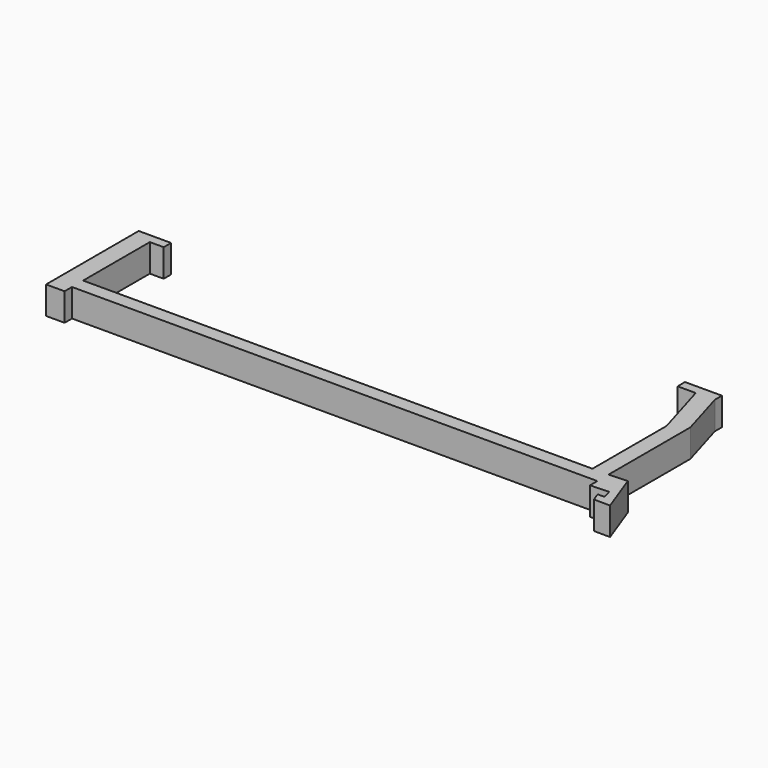
from build123d import *

# Parameters (mm, degrees)
F0_W     = 4
F0_H     = 2
F0_W_2   = 3
F1_DEPTH = 6


with BuildPart() as f1:
    # F0 (on Top) → F1 (new body)
    with BuildSketch(Plane.XY):
        Polygon((-36.408239, -50.416655), (-40.408239, -50.416655), (-40.408239, -73.416655), (-36.408239, -73.416655), (-36.408239, -70.416655), (-36.408239, -52.416655), align=None)
        Polygon((77.031761, -70.416655), (77.031761, -73.408619), (81.031761, -73.408619), (81.031761, -70.208589), align=None)
        Polygon((73.57222, -50.416655), (73.57222, -70.416655), (77.031761, -70.416655), (77.031761, -48.309352), (73.952891, -37.865963), (73.952891, -35.947701), (65.952891, -35.947701), (65.994848, -37.94726), (69.896053, -37.94726), align=None)
        Polygon((-36.408239, -70.416655), (-36.408239, -73.416655), (77.031761, -73.416655), (77.031761, -73.408619), (77.031761, -70.416655), (73.57222, -70.416655), align=None)
        with Locations((-38.408239, -74.416655)):
            Rectangle(F0_W, F0_H)
        Polygon((81.031761, -70.208589), (81.031761, -73.408619), (81.031761, -75.245387), (81.590484, -77.165759), (80.090484, -77.165759), (80.779666, -79.043265), (84.279666, -79.043265), align=None)
        with Locations((-34.908239, -51.416655)):
            Rectangle(F0_W_2, F0_H)
        Polygon((77.031761, -73.408619), (77.031761, -73.416655), (77.031761, -75.408619), (81.031761, -75.245387), (81.031761, -73.408619), align=None)
    extrude(amount=F1_DEPTH)


solid = f1.part
